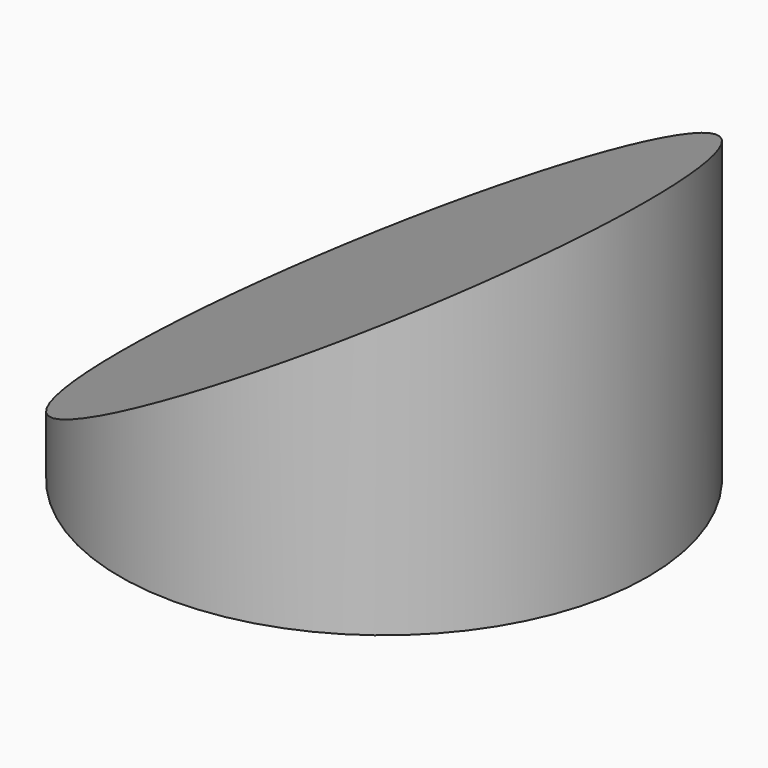
from build123d import *

# Parameters (mm, degrees)
F0_R          = 30
F1_DEPTH      = 40
F3_DEPTH      = 30.001
F3_DEPTH_BACK = 30.001


with BuildPart() as f1:
    # F0 (on Top) → F1 (new body)
    with BuildSketch(Plane.XY):
        Circle(F0_R)
    extrude(amount=F1_DEPTH)

    # F2 (on Front) → F3 (cut, two sides)
    with BuildSketch(Plane.XZ) as f3_sk:
        Polygon((-35.1247489452, 3), (-30, 3), (30, 37.6410161514), (35.4455187917, 37.6410161514), (35.4455187917, 50.6822839379), (-35.1247489452, 50.6822839379), align=None)
    extrude(amount=-F3_DEPTH, mode=Mode.SUBTRACT)
    extrude(f3_sk.sketch, amount=F3_DEPTH_BACK, mode=Mode.SUBTRACT)


solid = f1.part
